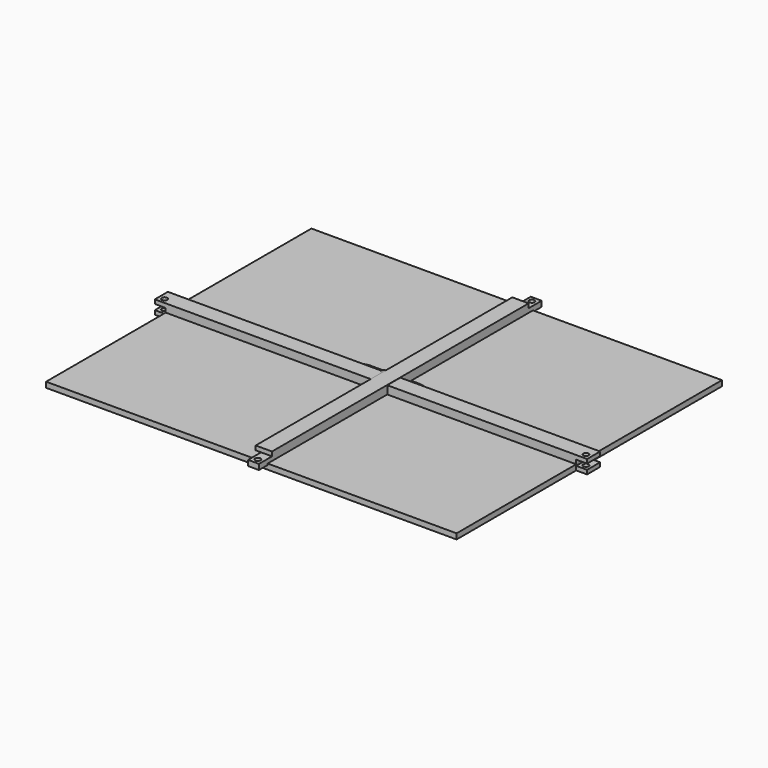
from build123d import *

# Parameters (mm, degrees)
F1_DEPTH  = 19.05
F2_W      = 6.35
F2_H      = 6.35
F3_DEPTH  = 492.126
F4_R      = 3.175
F5_DEPTH  = 15.876
F7_DEPTH  = 19.05
F8_R      = 3.175
F9_DEPTH  = 11.1135
F10_W     = 6.35
F10_H     = 6.35
F11_DEPTH = 412.751
F13_DEPTH = 6.35
F14_R     = 3.175
F15_DEPTH = 15.875


with BuildPart() as f1:
    # F0 (on Front) → F1 (new body)
    with BuildSketch(Plane.XZ):
        Polygon((-252.4125, 0), (0, 0), (252.4125, 0), (252.4125, 4.7625), (239.7125, 4.7625), (239.7125, 11.1125), (252.4125, 11.1125), (252.4125, 15.875), (0, 15.875), (-252.4125, 15.875), (-252.4125, 11.1125), (-239.7125, 11.1125), (-239.7125, 4.7625), (-252.4125, 4.7625), align=None)
    extrude(amount=F1_DEPTH)

    # F2 (on face) → F3 (cut, through all)
    with BuildSketch(Plane.YZ.offset(239.7125)):
        with Locations((-3.175, 7.9375)):
            Rectangle(F2_W, F2_H)
    extrude(amount=-F3_DEPTH, mode=Mode.SUBTRACT)

    # F4 (on face) → F5 (cut, through all)
    with BuildSketch(Plane.XY.offset(15.875)):
        with Locations((-246.0625, -12.7)):
            Circle(F4_R)
        with Locations((246.0625, -12.7)):
            Circle(F4_R)
    extrude(amount=-F5_DEPTH, mode=Mode.SUBTRACT)


with BuildPart() as f7:
    # F6 (on Right) → F7 (new body)
    with BuildSketch(Plane.YZ):
        Polygon((-187.325, 0), (0, 0), (187.325, 0), (187.325, 4.7625), (206.375, 4.7625), (206.375, 11.1125), (187.325, 11.1125), (187.325, 16.129), (0, 16.129), (-187.325, 16.129), (-187.325, 11.1125), (-206.375, 11.1125), (-206.375, 4.7625), (-187.325, 4.7625), align=None)
    extrude(amount=F7_DEPTH)

    # F8 (on face) → F9 (cut, through all)
    with BuildSketch(Plane.XY.offset(11.1125)):
        with Locations((12.7, 200.025)):
            Circle(F8_R)
        with Locations((12.7, -200.025)):
            Circle(F8_R)
    extrude(amount=-F9_DEPTH, mode=Mode.SUBTRACT)

    # F10 (on face) → F11 (cut, through all)
    with BuildSketch(Plane.XZ.offset(206.375)):
        with Locations((3.175, 7.9375)):
            Rectangle(F10_W, F10_H)
    extrude(amount=-F11_DEPTH, mode=Mode.SUBTRACT)


with BuildPart() as f13:
    # F12 (on Top) → F13 (new body)
    with BuildSketch(Plane.XY):
        Polygon((239.7125, 193.675), (0, 193.675), (-239.7125, 193.675), (-239.7125, 0), (-239.7125, -193.675), (0, -193.675), (239.7125, -193.675), (239.7125, 0), align=None)
        with BuildLine():
            Line((-28.575, 15.875), (0, 15.875))
            Line((0, 15.875), (28.575, 15.875))
            ThreePointArc((28.575, 15.875), (39.8003201513, 11.2253201513), (44.45, 0))
            ThreePointArc((44.45, 0), (39.8003201513, -11.2253201513), (28.575, -15.875))
            Line((28.575, -15.875), (0, -15.875))
            Line((0, -15.875), (-28.575, -15.875))
            ThreePointArc((-28.575, -15.875), (-39.8003201513, -11.2253201513), (-44.45, 0))
            ThreePointArc((-44.45, 0), (-39.8003201513, 11.2253201513), (-28.575, 15.875))
        make_face(mode=Mode.SUBTRACT)
    extrude(amount=F13_DEPTH)


with BuildPart() as f15:
    # F14 (on Top) → F15 (new body)
    with BuildSketch(Plane.XY):
        Circle(F14_R)
    extrude(amount=F15_DEPTH)


solid = Compound([f1.part, f7.part, f13.part, f15.part])
